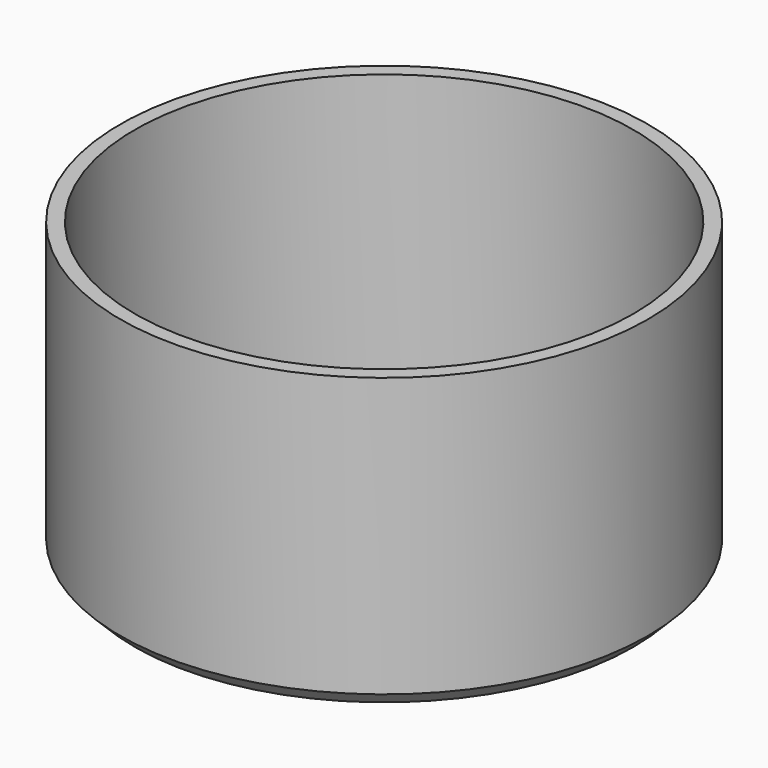
from build123d import *

# Parameters (mm, degrees)
F0_R     = 13.5
F0_R_2   = 10
F1_DEPTH = 15
F2_R     = 12.75
F3_DEPTH = 13.5
F4_SIZE  = 0.75


with BuildPart() as f1:
    # F0 (on Top) → F1 (new body)
    with BuildSketch(Plane.XY):
        Circle(F0_R)
        Circle(F0_R_2, mode=Mode.SUBTRACT)
    extrude(amount=F1_DEPTH)

    # F2 (on face) → F3 (cut)
    with BuildSketch(Plane.XY.offset(15)):
        Circle(F2_R)
    extrude(amount=-F3_DEPTH, mode=Mode.SUBTRACT)

    # F4
    f4_edges = [f1.edges().sort_by_distance(p)[0] for p in [
        (-13.5, 0, 0),
        (-10, 0, 0),
    ]]
    chamfer(f4_edges, length=F4_SIZE)


solid = f1.part
